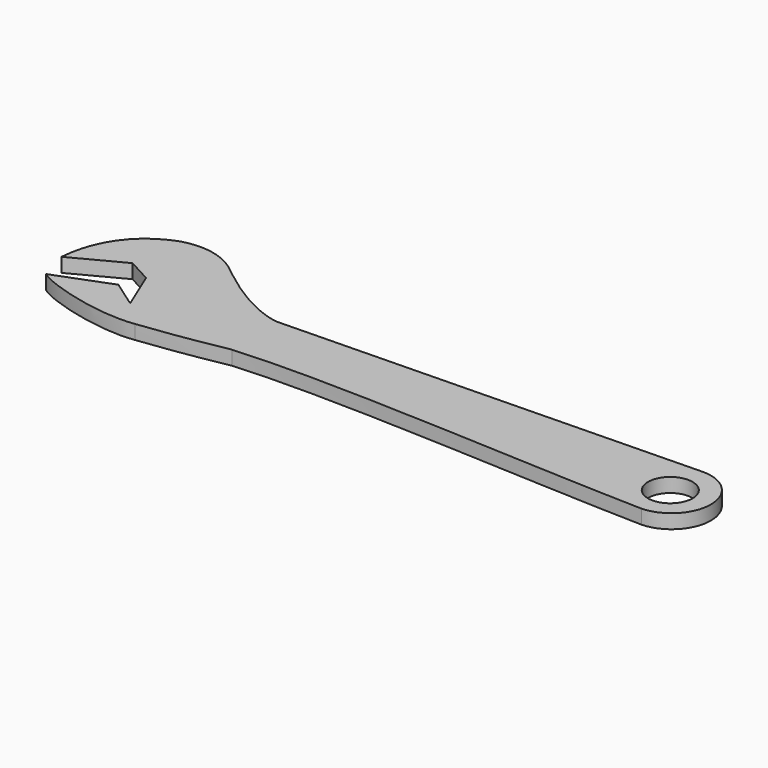
from build123d import *

# Parameters (mm, degrees)
F0_R     = 7.877986
F1_DEPTH = 5


with BuildPart() as f1:
    # F0 (on Top) → F1 (new body)
    with BuildSketch(Plane.XY):
        with BuildLine():
            add(Edge.make_bspline(
                [(-131.770471, -15.344732), (-131.445497, -13.650351), (-131.121159, 5.290752), (-111.790858, 12.361232)],
                knots=[0, 0, 0, 0, 34.158534, 34.158534, 34.158534, 34.158534], degree=3))
            Line((-131.770471, -15.344732), (-114.090957, -6.052544))
            Line((-114.090957, -6.052544), (-105.684057, -10.58466))
            Line((-105.684057, -10.58466), (-99.595115, -25.218893))
            Line((-99.595115, -25.218893), (-109.074496, -18.541807))
            Line((-109.074496, -18.541807), (-128.633383, -26.035686))
            add(Edge.make_bspline(
                [(-128.633383, -26.035686), (-124.727845, -29.287344), (-104.234308, -35.877973), (-90.84826, -33.973034)],
                knots=[0, 0, 0, 0, 38.609805, 38.609805, 38.609805, 38.609805], degree=3))
            add(Edge.make_bspline(
                [(-90.84826, -33.973034), (-81.552133, -32.894857), (-73.022142, -31.662386), (-60.378089, -29.26957)],
                knots=[0, 0, 0, 0, 30.831053, 30.831053, 30.831053, 30.831053], degree=3))
            add(Edge.make_bspline(
                [(-60.378089, -29.26957), (-23.105811, -26.617799), (37.977318, -31.660314), (87.155022, -32.855686)],
                knots=[0, 0, 0, 0, 147.576689, 147.576689, 147.576689, 147.576689], degree=3))
            ThreePointArc((87.155022, -32.855686), (100.521561, -18.98321), (87.155022, -5.110735))
            Line((87.155022, -5.110735), (-60.378089, -8.47189))
            add(Edge.make_bspline(
                [(-88.798821, 6.150824), (-71.237087, -7.63234), (-62.245172, -8.577255), (-60.378089, -8.47189)],
                knots=[0, 0, 0, 0, 31.96188, 31.96188, 31.96188, 31.96188], degree=3))
            add(Edge.make_bspline(
                [(-111.790858, 12.361232), (-98.411314, 16.069453), (-90.023339, 6.946764), (-88.798821, 6.150824)],
                knots=[0, 0, 0, 0, 23.816023, 23.816023, 23.816023, 23.816023], degree=3))
        make_face()
        with Locations((86.408882, -19.263128)):
            Circle(F0_R, mode=Mode.SUBTRACT)
    extrude(amount=F1_DEPTH)


solid = f1.part
